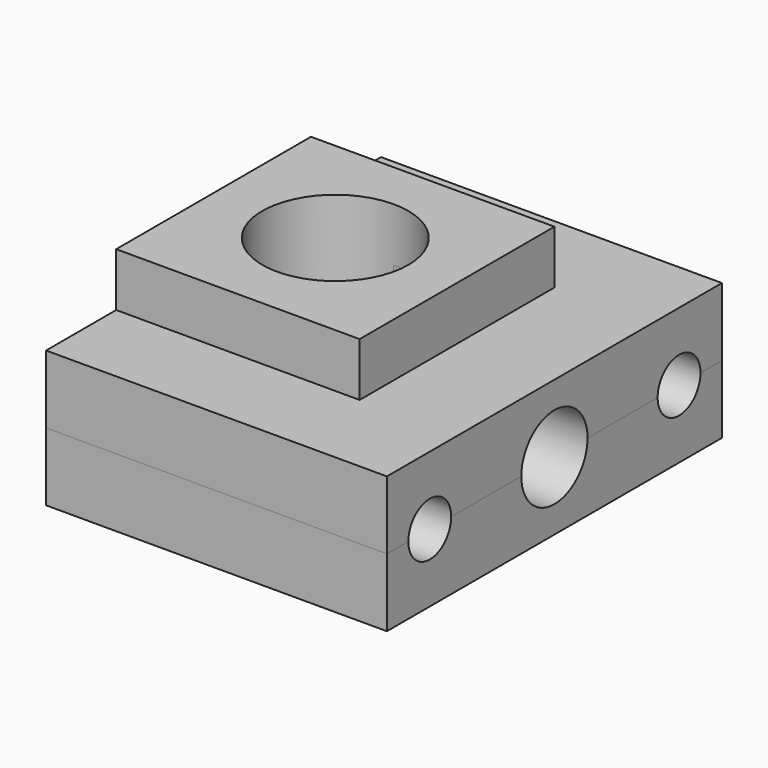
from build123d import *

# Parameters (mm, degrees)
F0_W          = 25
F0_H          = 25
F0_R          = 7.5
F1_DEPTH      = 12.5
F1_DEPTH_BACK = 12.5
F2_W          = 12.5
F2_H          = 9
F3_DEPTH      = 7
F3_DEPTH_BACK = 7
F6_DEPTH      = 10
F5_R          = 2.75
F7_DEPTH      = 35.1


with BuildPart() as f1:
    # F0 (on Top) → F1 (new body, two sides)
    with BuildSketch(Plane.XY) as f1_sk:
        with Locations((12.5, 12.5)):
            Rectangle(F0_W, F0_H)
        with Locations((12.5, 12.5)):
            Circle(F0_R, mode=Mode.SUBTRACT)
    extrude(amount=F1_DEPTH)
    extrude(f1_sk.sketch, amount=-F1_DEPTH_BACK)

    # F2 (on Top) → F3 (join, two sides)
    with BuildSketch(Plane.XY) as f3_sk:
        with BuildLine():
            Line((12.5, 34), (12.5, 25))
            Line((12.5, 25), (12.5, 20))
            ThreePointArc((12.5, 20), (17.803301, 17.803301), (20, 12.5))
            ThreePointArc((20, 12.5), (17.803301, 7.196699), (12.5, 5))
            Line((12.5, 5), (12.5, 0))
            Line((12.5, 0), (12.5, -9))
            Line((12.5, -9), (35, -9))
            Line((35, -9), (35, 34))
            Line((35, 34), (12.5, 34))
        make_face()
        with Locations((6.25, 29.5)):
            Rectangle(F2_W, F2_H)
        with Locations((6.25, -4.5)):
            Rectangle(F2_W, F2_H)
    extrude(amount=F3_DEPTH)
    extrude(f3_sk.sketch, amount=-F3_DEPTH_BACK)

    # F4 (on face) → F6 (cut)
    with BuildSketch(Plane.YZ.offset(35)):
        with BuildLine():
            ThreePointArc((8.25, 0), (12.5, -4.25), (16.75, 0))
            ThreePointArc((16.75, 0), (12.5, 4.25), (8.25, 0))
        make_face()
    extrude(amount=-F6_DEPTH, mode=Mode.SUBTRACT)

    # F5 (on face) → F7 (cut)
    with BuildSketch(Plane.YZ.offset(35)):
        with BuildLine():
            ThreePointArc((31.25, 0), (28.5, 2.75), (25.75, 0))
            ThreePointArc((25.75, 0), (28.5, -2.75), (31.25, 0))
        make_face()
        with Locations((-3.5, 0)):
            Circle(F5_R)
    extrude(amount=-F7_DEPTH, mode=Mode.SUBTRACT)


solid = f1.part
